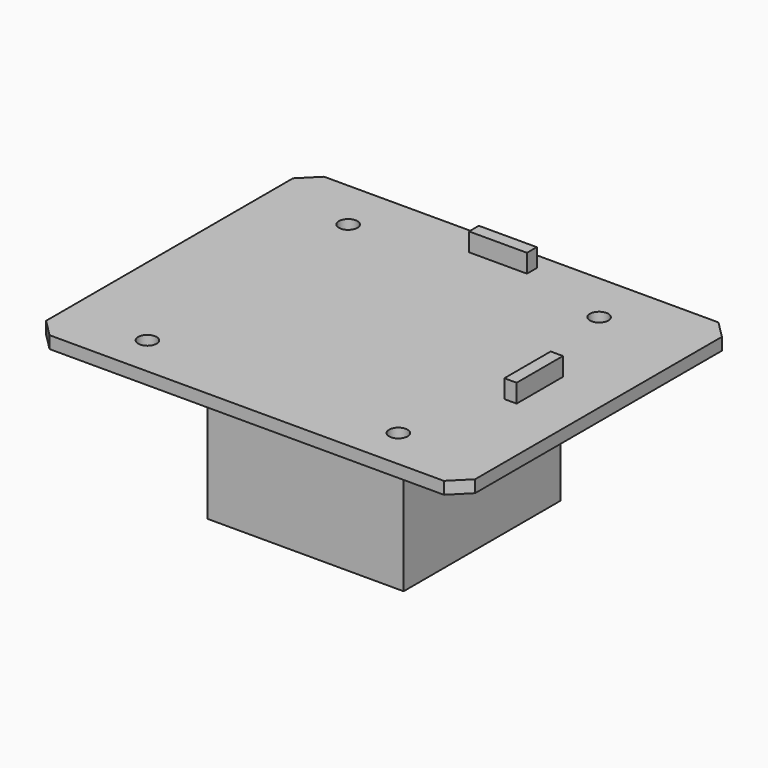
from build123d import *

# Parameters (mm, degrees)
F2_DEPTH = 12.7
F3_R     = 9.525
F4_DEPTH = 12.7
F5_W     = 60
F5_H     = 12.7
F5_W_2   = 12.7
F5_H_2   = 60
F6_DEPTH = 19.05
F7_W     = 203.2
F7_H     = 203.2
F7_W_2   = 184.15
F7_H_2   = 184.15
F8_DEPTH = 152.4


with BuildPart() as f2:
    # F1 (on offset) → F2 (new body)
    with BuildSketch(Plane.XY.offset(304.8)):
        Polygon((50.8, 17.960512), (68.760512, 0), (477.339488, 0), (495.3, 17.960512), (495.3, 337.639488), (477.339488, 355.6), (68.760512, 355.6), (50.8, 337.639488), align=None)
    extrude(amount=-F2_DEPTH)

    # F3 (on face) → F4 (cut)
    with BuildSketch(Plane.XY.offset(304.8)):
        with Locations((396.217286, 302.437495)):
            Circle(F3_R)
        with Locations((396.217286, 42.437495)):
            Circle(F3_R)
        with Locations((136.217286, 302.437495)):
            Circle(F3_R)
        with Locations((136.217286, 42.437495)):
            Circle(F3_R)
    extrude(amount=-F4_DEPTH, mode=Mode.SUBTRACT)

    # F5 (on face) → F6 (join)
    with BuildSketch(Plane.XY.offset(304.8)):
        with Locations((273.05, 331.7875)):
            Rectangle(F5_W, F5_H)
        with Locations((432.4, 172.4375)):
            Rectangle(F5_W_2, F5_H_2)
    extrude(amount=F6_DEPTH)

    # F7 (on face) → F8 (join)
    with BuildSketch(Plane(origin=(0, 0, 292.1), x_dir=(1, 0, 0), z_dir=(0, 0, -1))):
        with Locations((273.05, -177.8)):
            Rectangle(F7_W, F7_H)
        with Locations((273.05, -177.8)):
            Rectangle(F7_W_2, F7_H_2, mode=Mode.SUBTRACT)
    extrude(amount=F8_DEPTH)


solid = f2.part
